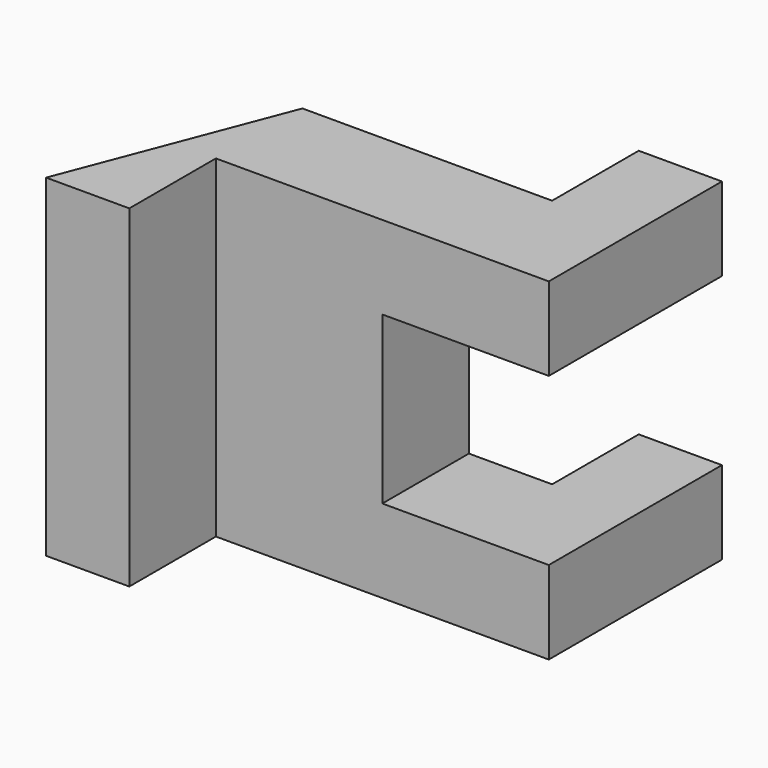
from build123d import *

# Parameters (mm, degrees)
F1_DEPTH = 20
F2_W     = 20
F2_H     = 20
F3_DEPTH = 26.001
F5_DEPTH = 40.001


with BuildPart() as f1:
    # F0 (on Top) → F1 (new body, symmetric)
    with BuildSketch(Plane.XY):
        Polygon((0, 26), (0, 0), (10, 0), (10, 13), (50, 13), (50, 39), (40, 39), (40, 26), align=None)
    extrude(amount=F1_DEPTH, both=True)

    # F2 (on face) → F3 (cut, through all)
    with BuildSketch(Plane.XZ.offset(-13)):
        with Locations((40, 0)):
            Rectangle(F2_W, F2_H)
    extrude(amount=-F3_DEPTH, mode=Mode.SUBTRACT)

    # F4 (on face) → F5 (cut, through all)
    with BuildSketch(Plane.XY.offset(20)):
        Polygon((0, 0), (10, 26), (0, 26), align=None)
    extrude(amount=-F5_DEPTH, mode=Mode.SUBTRACT)


solid = f1.part
